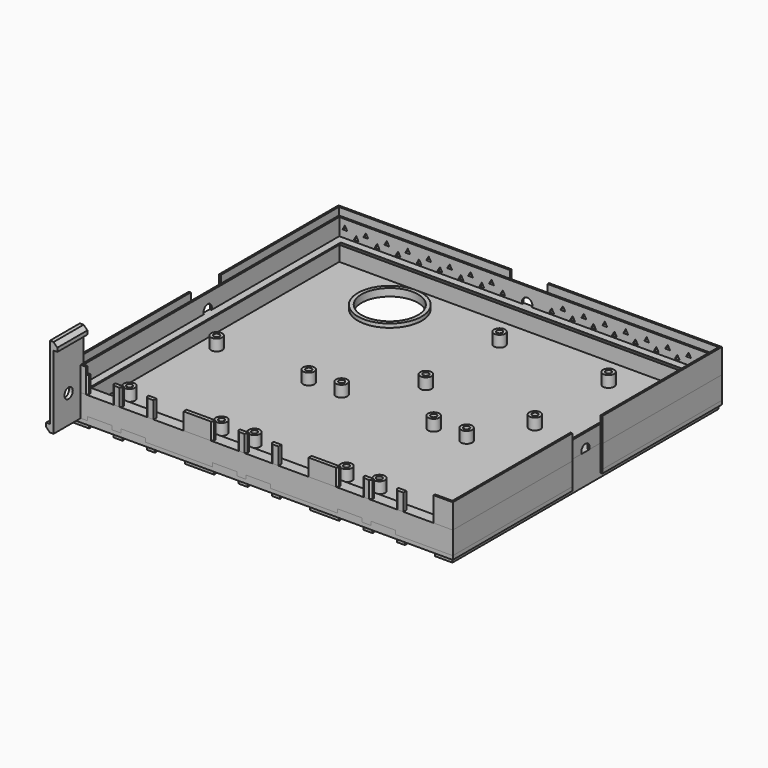
from build123d import *

# Parameters (mm, degrees)
SKETCH_W               = 204
SKETCH_H               = 179
SKETCH_W_2             = 200
SKETCH_H_2             = 175
PAD_DEPTH              = 21
SKETCH001_W            = 204
SKETCH001_H            = 179
PAD001_DEPTH           = 2
SKETCH002_W            = 13
SKETCH002_H            = 14
SKETCH002_H_2          = 14.5
SKETCH002_W_2          = 16
SKETCH002_H_3          = 13.5
POCKET_DEPTH           = 2
LINEARPATTERN_COUNT    = 3
LINEARPATTERN_PITCH    = 66.5
SKETCH003_R            = 3
SKETCH003_R_2          = 1.52
PAD002_DEPTH           = 6
LINEARPATTERN001_COUNT = 3
LINEARPATTERN001_PITCH = 66.5
CHAMFER_SIZE           = 1
SKETCH004_R            = 17
PAD003_DEPTH           = 2
SKETCH005_R            = 15
POCKET001_DEPTH        = 4
PAD004_DEPTH           = 4
SKETCH007_R            = 3
SKETCH007_R_2          = 1.52
PAD005_DEPTH           = 6
SKETCH008_W            = 1
SKETCH008_H            = 20
SKETCH008_W_2          = 20
SKETCH008_H_2          = 1
POCKET002_DEPTH        = 27
SKETCH009_R            = 2.75
POCKET003_DEPTH        = 202
SKETCH010_R            = 2.75
POCKET004_DEPTH        = 1
POCKET005_DEPTH        = 2
LINEARPATTERN002_COUNT = 8
LINEARPATTERN002_PITCH = 11.142857
POCKET006_DEPTH        = 2
LINEARPATTERN003_COUNT = 8
LINEARPATTERN003_PITCH = 11.142857
SKETCH013_W            = 204
SKETCH013_H            = 179
SKETCH013_W_2          = 200
SKETCH013_H_2          = 175
PAD006_DEPTH           = 12
SKETCH014_W            = 200
SKETCH014_H            = 175
SKETCH014_W_2          = 192
SKETCH014_H_2          = 167
PAD007_DEPTH           = 4
CHAMFER001_SIZE        = 3.96
SKETCH015_W            = 202
SKETCH015_H            = 177
SKETCH015_W_2          = 200
SKETCH015_H_2          = 175
PAD008_DEPTH           = 4
SKETCH016_W            = 1
SKETCH016_H            = 20
SKETCH016_W_2          = 20
SKETCH016_H_2          = 1
POCKET007_DEPTH        = 12
SKETCH017_W            = 13
SKETCH017_H            = 6
SKETCH017_W_2          = 16
SKETCH017_H_2          = 4
POCKET008_DEPTH        = 2
LINEARPATTERN004_COUNT = 3
LINEARPATTERN004_PITCH = 66.5
PAD009_DEPTH           = 20
SKETCH019_R            = 2.75
POCKET009_DEPTH        = 2


with BuildPart() as bottom_half:
    # Sketch → Pad (new body)
    with BuildSketch(Plane.XY):
        with Locations((100, 87.5)):
            Rectangle(SKETCH_W, SKETCH_H)
        with Locations((100, 87.5)):
            Rectangle(SKETCH_W_2, SKETCH_H_2, mode=Mode.SUBTRACT)
    extrude(amount=PAD_DEPTH)

    # Sketch001 (on Face9 of Pad) → Pad001 (join)
    with BuildSketch(Plane(origin=(0, 0, 0), x_dir=(1, 0, 0), z_dir=(0, 0, -1))):
        with Locations((100, -87.5)):
            Rectangle(SKETCH001_W, SKETCH001_H)
    extrude(amount=PAD001_DEPTH)

    # Sketch002 (on Face1 of Pad001) → Pocket (cut)
    with BuildSketch(Plane.XZ.offset(2)):
        with Locations((14.25, 16)):
            Rectangle(SKETCH002_W, SKETCH002_H)
        with Locations((32.05, 15.75)):
            Rectangle(SKETCH002_W, SKETCH002_H_2)
        with Locations((50.75, 14.25)):
            Rectangle(SKETCH002_W_2, SKETCH002_H_3)
    pocket = extrude(amount=-POCKET_DEPTH, mode=Mode.SUBTRACT)

    # LinearPattern: Pocket ×3
    with Locations(*[(i * LINEARPATTERN_PITCH, 0, 0) for i in range(1, LINEARPATTERN_COUNT)]):
        add(pocket, mode=Mode.SUBTRACT)

    # Sketch003 → Pad002 (join)
    with BuildSketch(Plane.XY):
        with Locations((8.75, 82.5)):
            Circle(SKETCH003_R)
        with Locations((8.75, 82.5)):
            Circle(SKETCH003_R_2, mode=Mode.SUBTRACT)
        with Locations((57.75, 24.5)):
            Circle(SKETCH003_R)
        with Locations((57.75, 24.5)):
            Circle(SKETCH003_R_2, mode=Mode.SUBTRACT)
        with Locations((8.75, 24.5)):
            Circle(SKETCH003_R)
        with Locations((8.75, 24.5)):
            Circle(SKETCH003_R_2, mode=Mode.SUBTRACT)
        with Locations((57.75, 82.5)):
            Circle(SKETCH003_R)
        with Locations((57.75, 82.5)):
            Circle(SKETCH003_R_2, mode=Mode.SUBTRACT)
    pad002 = extrude(amount=PAD002_DEPTH)

    # LinearPattern001: Pad002 ×3
    with Locations(*[(i * LINEARPATTERN001_PITCH, 0, 0) for i in range(1, LINEARPATTERN001_COUNT)]):
        add(pad002)

    # Chamfer
    chamfer_edges = [bottom_half.edges().sort_by_distance(p)[0] for p in [
        (14.25, -2, 9),
        (7.75, -2, 15),
        (20.75, -2, 15),
        (32.05, -2, 8.5),
        (25.55, -2, 14.75),
        (38.55, -2, 14.75),
        (50.75, -2, 7.5),
        (80.75, -2, 9),
        (87.25, -2, 15),
        (74.25, -2, 15),
        (98.55, -2, 8.5),
        (92.05, -2, 14.75),
        (105.05, -2, 14.75),
        (147.25, -2, 9),
        (153.75, -2, 15),
        (140.75, -2, 15),
        (165.05, -2, 8.5),
        (158.55, -2, 14.75),
        (171.55, -2, 14.75),
    ]]
    chamfer(chamfer_edges, length=CHAMFER_SIZE)

    # Sketch004 (on Face68 of Chamfer) → Pad003 (join)
    with BuildSketch(Plane.XY):
        with Locations((42.88, 155)):
            Circle(SKETCH004_R)
    extrude(amount=PAD003_DEPTH)

    # Sketch005 (on Face95 of Pad003) → Pocket001 (cut)
    with BuildSketch(Plane.XY.offset(2)):
        with Locations((42.88, 155)):
            Circle(SKETCH005_R)
    extrude(amount=-POCKET001_DEPTH, mode=Mode.SUBTRACT)

    # Sketch006 (on Face10 of Pocket001) → Pad004 (join)
    with BuildSketch(Plane.XY.offset(21)):
        Polygon((-2, 177), (202, 177), (202, -2), (191.75, -2), (191.75, -1), (201, -1), (201, 176), (-1, 176), (-1, -1), (6.75, -1), (6.75, -2), (-2, -2), align=None)
    extrude(amount=PAD004_DEPTH)

    # Sketch007 (on Face72 of Pad004) → Pad005 (join)
    with BuildSketch(Plane.XY):
        with Locations((98.408081, 158.606796)):
            Circle(SKETCH007_R)
        with Locations((98.408081, 158.606796)):
            Circle(SKETCH007_R_2, mode=Mode.SUBTRACT)
        with Locations((98.408081, 109.606796)):
            Circle(SKETCH007_R)
        with Locations((98.408081, 109.606796)):
            Circle(SKETCH007_R_2, mode=Mode.SUBTRACT)
        with Locations((156.408081, 158.606796)):
            Circle(SKETCH007_R)
        with Locations((156.408081, 158.606796)):
            Circle(SKETCH007_R_2, mode=Mode.SUBTRACT)
        with Locations((156.408081, 109.606796)):
            Circle(SKETCH007_R)
        with Locations((156.408081, 109.606796)):
            Circle(SKETCH007_R_2, mode=Mode.SUBTRACT)
    extrude(amount=PAD005_DEPTH)

    # Sketch008 (on Face50 of Pad005) → Pocket002 (cut)
    with BuildSketch(Plane.XY.offset(25)):
        with Locations((-1.5, 87.5)):
            Rectangle(SKETCH008_W, SKETCH008_H)
        with Locations((100, 176.5)):
            Rectangle(SKETCH008_W_2, SKETCH008_H_2)
        with Locations((201.5, 87.5)):
            Rectangle(SKETCH008_W, SKETCH008_H)
    extrude(amount=-POCKET002_DEPTH, mode=Mode.SUBTRACT)

    # Sketch009 (on Face80 of Pocket002) → Pocket003 (cut)
    with BuildSketch(Plane(origin=(-1, 0, 0), x_dir=(0, -1, 0), z_dir=(-1, 0, 0))):
        with Locations((-87.5, 13)):
            Circle(SKETCH009_R)
    extrude(amount=-POCKET003_DEPTH, mode=Mode.SUBTRACT)

    # Sketch010 (on Face83 of Pocket003) → Pocket004 (cut)
    with BuildSketch(Plane(origin=(0, 176, 0), x_dir=(-1, 0, 0), z_dir=(0, 1, 0))):
        with Locations((-100, 13)):
            Circle(SKETCH010_R)
    extrude(amount=-POCKET004_DEPTH, mode=Mode.SUBTRACT)

    # Sketch011 (on Face88 of Pocket004) → Pocket005 (cut)
    with BuildSketch(Plane.XZ.offset(-175)):
        Polygon((4.299038, 15.75), (3, 18), (1.700962, 15.75), align=None)
        Polygon((3, 12), (1.700962, 9.75), (4.299038, 9.75), align=None)
        Polygon((3, 6), (1.700962, 3.75), (4.299038, 3.75), align=None)
        Polygon((10.299038, 12.75), (9, 15), (7.700962, 12.75), align=None)
        Polygon((10.299038, 6.75), (9, 9), (7.700962, 6.75), align=None)
    pocket005 = extrude(amount=-POCKET005_DEPTH, mode=Mode.SUBTRACT)

    # LinearPattern002: Pocket005 ×8
    with Locations(*[(i * LINEARPATTERN002_PITCH, 0, 0) for i in range(1, LINEARPATTERN002_COUNT)]):
        add(pocket005, mode=Mode.SUBTRACT)

    # Sketch012 (on Face88 of LinearPattern002) → Pocket006 (cut)
    with BuildSketch(Plane.XZ.offset(-175)):
        Polygon((197, 18), (195.700962, 15.75), (198.299038, 15.75), align=None)
        Polygon((197, 12), (195.700962, 9.75), (198.299038, 9.75), align=None)
        Polygon((197, 6), (195.700962, 3.75), (198.299038, 3.75), align=None)
        Polygon((192.299038, 12.75), (191, 15), (189.700962, 12.75), align=None)
        Polygon((192.299038, 6.75), (191, 9), (189.700962, 6.75), align=None)
    pocket006 = extrude(amount=-POCKET006_DEPTH, mode=Mode.SUBTRACT)

    # LinearPattern003: Pocket006 ×8
    with Locations(*[(-i * LINEARPATTERN003_PITCH, 0, 0) for i in range(1, LINEARPATTERN003_COUNT)]):
        add(pocket006, mode=Mode.SUBTRACT)


with BuildPart() as top_half:
    # Sketch013 → Pad006 (new body)
    with BuildSketch(Plane.XY):
        with Locations((100, 87.5)):
            Rectangle(SKETCH013_W, SKETCH013_H)
        with Locations((100, 87.5)):
            Rectangle(SKETCH013_W_2, SKETCH013_H_2, mode=Mode.SUBTRACT)
    extrude(amount=PAD006_DEPTH)

    # Sketch014 (on Face10 of Pad006) → Pad007 (join)
    with BuildSketch(Plane.XY.offset(12)):
        with Locations((100, 87.5)):
            Rectangle(SKETCH014_W, SKETCH014_H)
        with Locations((100, 87.5)):
            Rectangle(SKETCH014_W_2, SKETCH014_H_2, mode=Mode.SUBTRACT)
    extrude(amount=-PAD007_DEPTH)

    # Chamfer001
    chamfer001_edges = [top_half.edges().sort_by_distance(p)[0] for p in [
        (100, 171, 8),
        (4, 87.5, 8),
        (100, 4, 8),
        (196, 87.5, 8),
    ]]
    chamfer(chamfer001_edges, length=CHAMFER001_SIZE)

    # Sketch015 (on Face14 of Chamfer001) → Pad008 (join)
    with BuildSketch(Plane(origin=(0, 0, 0), x_dir=(1, 0, 0), z_dir=(0, 0, -1))):
        with Locations((100, -87.5)):
            Rectangle(SKETCH015_W, SKETCH015_H)
        with Locations((100, -87.5)):
            Rectangle(SKETCH015_W_2, SKETCH015_H_2, mode=Mode.SUBTRACT)
    extrude(amount=PAD008_DEPTH)

    # Sketch016 (on Face20 of Pad008) → Pocket007 (cut)
    with BuildSketch(Plane.XY.offset(12)):
        with Locations((-1.5, 87.5)):
            Rectangle(SKETCH016_W, SKETCH016_H)
        with Locations((201.5, 87.5)):
            Rectangle(SKETCH016_W, SKETCH016_H)
        with Locations((100, 176.5)):
            Rectangle(SKETCH016_W_2, SKETCH016_H_2)
    extrude(amount=-POCKET007_DEPTH, mode=Mode.SUBTRACT)

    # Sketch017 (on Face40 of Pocket007) → Pocket008 (cut)
    with BuildSketch(Plane.XZ.offset(2)):
        with Locations((14.25, -1)):
            Rectangle(SKETCH017_W, SKETCH017_H)
        with Locations((32.05, -1)):
            Rectangle(SKETCH017_W, SKETCH017_H)
        with Locations((50.75, -2)):
            Rectangle(SKETCH017_W_2, SKETCH017_H_2)
    pocket008 = extrude(amount=-POCKET008_DEPTH, mode=Mode.SUBTRACT)

    # LinearPattern004: Pocket008 ×3
    with Locations(*[(i * LINEARPATTERN004_PITCH, 0, 0) for i in range(1, LINEARPATTERN004_COUNT)]):
        add(pocket008, mode=Mode.SUBTRACT)


with BuildPart() as lock:
    # Sketch018 → Pad009 (new body)
    with BuildSketch(Plane.XZ):
        Polygon((0, 4), (0, 2), (2, 0), (4, 0), (4, 39), (6, 39), (6, 41), (4, 43), (2, 43), (2, 4), align=None)
    extrude(amount=PAD009_DEPTH)

    # Sketch019 (on Face4 of Pad009) → Pocket009 (cut)
    with BuildSketch(Plane.YZ.offset(4)):
        with Locations((-10, 15)):
            Circle(SKETCH019_R)
    extrude(amount=-POCKET009_DEPTH, mode=Mode.SUBTRACT)


solid = Compound([bottom_half.part, top_half.part, lock.part])
